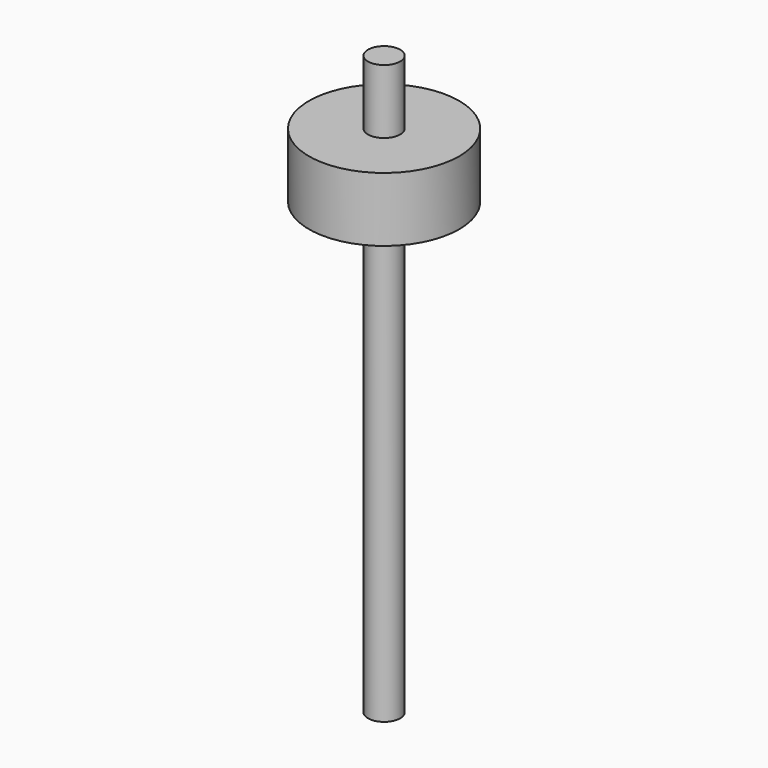
from build123d import *

# Parameters (mm, degrees)
F0_W   = 2.5
F0_H   = 10
F0_H_2 = 70


with BuildPart() as f1:
    # F0 (on Front) → F1 (revolve)
    with BuildSketch(Plane.XZ):
        Polygon((2.5, 0), (0, 0), (0, -10), (2.5, -10), (11.689152, -10), (11.689152, 0), align=None)
        with Locations((1.25, 5)):
            Rectangle(F0_W, F0_H)
        with Locations((1.25, -45)):
            Rectangle(F0_W, F0_H_2)
    revolve(axis=Axis((0, 0, -45), (0, 0, -1)))


solid = f1.part
